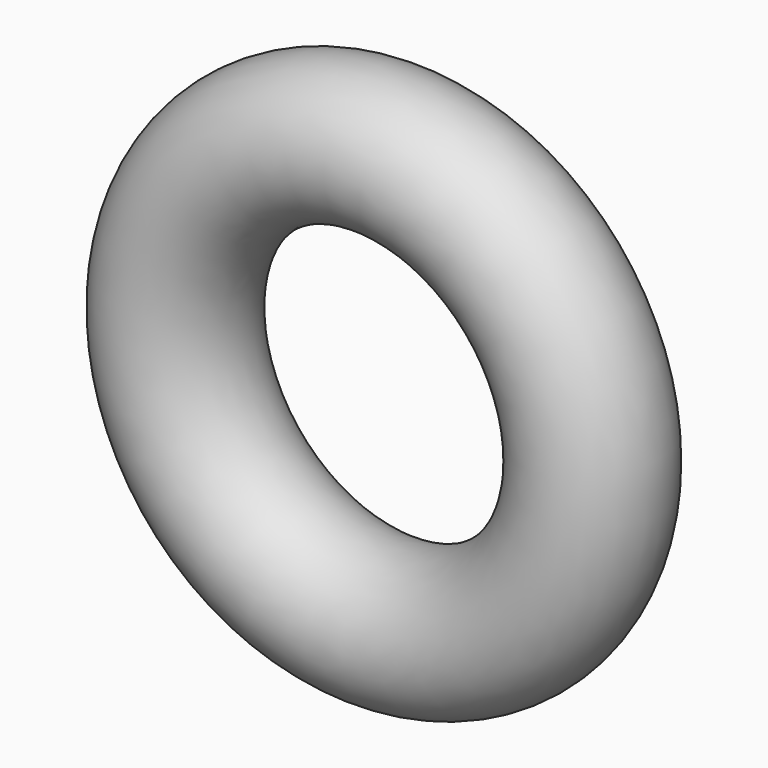
from build123d import *

# Parameters (mm, degrees)
F0_R = 100


with BuildPart() as f2:
    # F0 (on Top) → F2 (revolve)
    with BuildSketch(Plane.XY):
        with Locations((300, 0)):
            Circle(F0_R)
        with Locations((300, 0)):
            Circle(F0_R)
    revolve(axis=Axis((0, 79.953991, 0), (0, 1, 0)))


solid = f2.part
